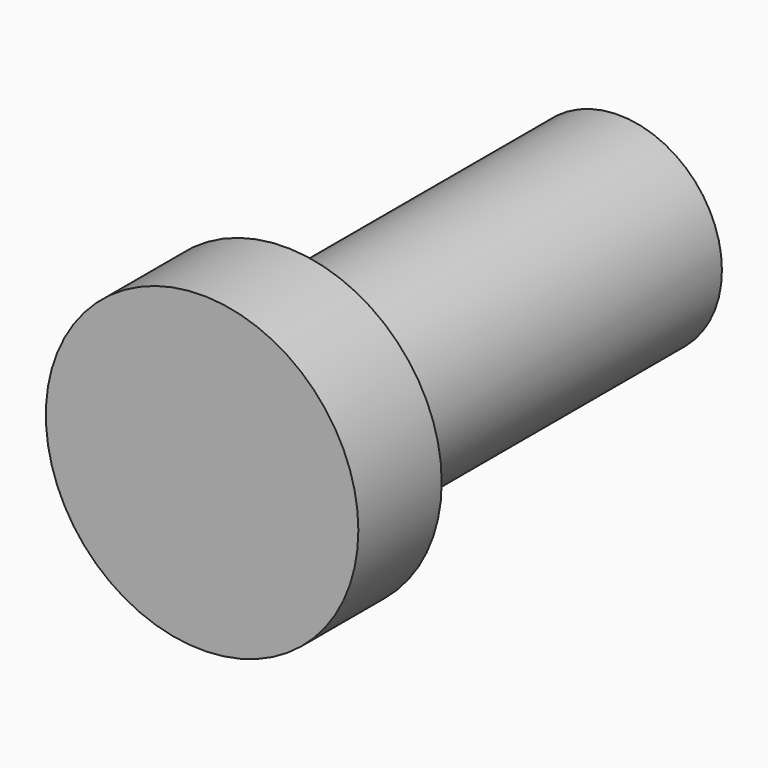
from build123d import *

# Parameters (mm, degrees)
F0_R     = 12.573
F1_DEPTH = 50.8
F2_R     = 19.05
F3_DEPTH = 12.7


with BuildPart() as f1:
    # F0 (on Front) → F1 (new body)
    with BuildSketch(Plane.XZ):
        Circle(F0_R)
    extrude(amount=-F1_DEPTH)

    # F2 (on Front) → F3 (join)
    with BuildSketch(Plane.XZ):
        Circle(F2_R)
    extrude(amount=F3_DEPTH)

    # F4 (on Right) → F5 (revolve, cut)
    with BuildSketch(Plane.YZ):
        with BuildLine():
            Line((44.45, 0), (69.85, 0))
            ThreePointArc((69.85, 0), (57.15, 12.7), (44.45, 0))
        make_face()
    revolve(axis=Axis((0, 39.479446, 0), (0, 1, 0)), mode=Mode.SUBTRACT)


solid = f1.part
